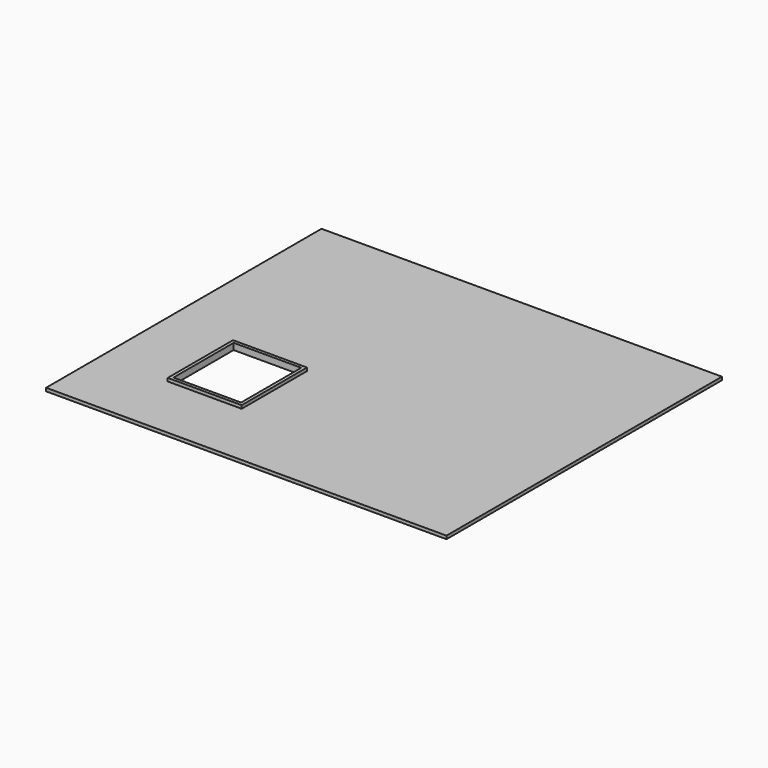
from build123d import *

# Parameters (mm, degrees)
F0_W     = 62.8
F0_H     = 54
F0_W_2   = 12.8
F0_H_2   = 14
F0_W_3   = 11.6
F0_H_3   = 12.8
F0_W_4   = 10.6
F0_H_4   = 11.8
F1_DEPTH = 0.5
F2_DEPTH = 1


with BuildPart() as f1:
    # F0 (on Top) → F1 (new body)
    with BuildSketch(Plane.XY):
        with Locations((15, 10)):
            Rectangle(F0_W, F0_H)
        Rectangle(F0_W_2, F0_H_2, mode=Mode.SUBTRACT)
        Rectangle(F0_W_2, F0_H_2)
        Rectangle(F0_W_3, F0_H_3, mode=Mode.SUBTRACT)
        Rectangle(F0_W_3, F0_H_3)
        Rectangle(F0_W_4, F0_H_4, mode=Mode.SUBTRACT)
    extrude(amount=F1_DEPTH)

    # F0 (on Top) → F2 (join)
    with BuildSketch(Plane.XY):
        Rectangle(F0_W_3, F0_H_3)
        Rectangle(F0_W_4, F0_H_4, mode=Mode.SUBTRACT)
    extrude(amount=F2_DEPTH)


solid = f1.part
